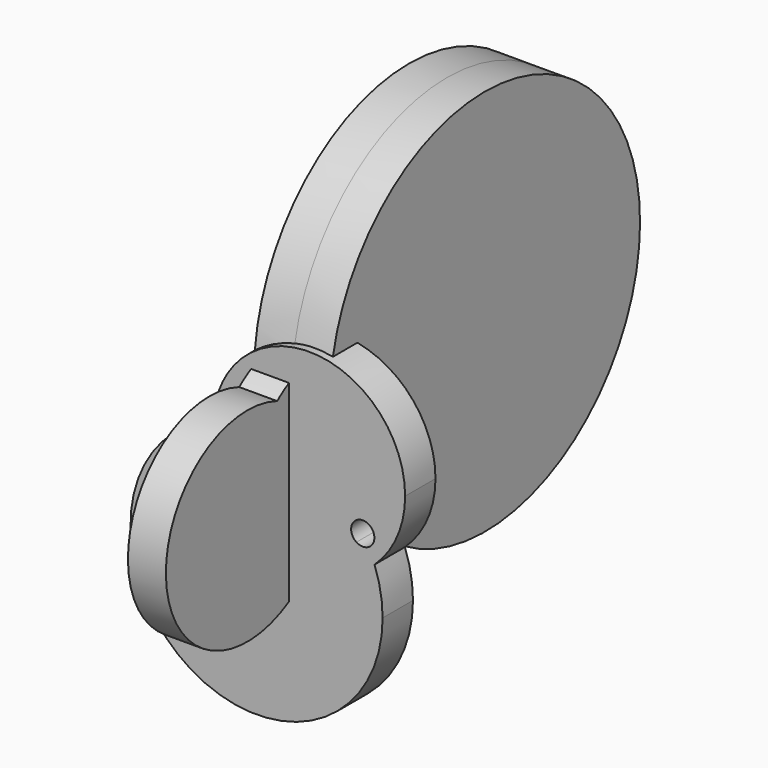
from build123d import *

# Parameters (mm, degrees)
F2_DEPTH = 25.4
F3_R     = 129.6964
F4_DEPTH = 25.4
F5_DEPTH = 25.4


with BuildPart() as f2:
    # F1 (on Front) → F2 (new body)
    with BuildSketch(Plane.XZ):
        with BuildLine():
            ThreePointArc((78.589507, 30.832666), (74.494962, 29.796901), (70.462836, 31.053908))
            ThreePointArc((70.462836, 31.053908), (66.930737, 37.424368), (70.219674, 43.923704))
            ThreePointArc((70.219674, 43.923704), (26.930725, 73.209289), (-25.301633, 71.376443))
            ThreePointArc((-25.301633, 71.376443), (12.044477, 10.444223), (82.60394, 21.794539))
            ThreePointArc((82.60394, 21.794539), (80.729272, 26.372476), (78.589507, 30.832666))
        make_face()
        with BuildLine():
            ThreePointArc((82.483879, 37.571285), (81.440266, 33.679784), (78.589507, 30.832666))
            ThreePointArc((78.589507, 30.832666), (80.729272, 26.372476), (82.60394, 21.794539))
            ThreePointArc((82.60394, 21.794539), (97.722989, 43.160958), (103.058228, 68.786039))
            ThreePointArc((103.058228, 68.786039), (56.097647, 130.632723), (-16.089775, 102.009572))
            ThreePointArc((-16.089775, 102.009572), (-22.633979, 87.275877), (-25.301633, 71.376443))
            ThreePointArc((-25.301633, 71.376443), (26.930725, 73.209289), (70.219674, 43.923704))
            ThreePointArc((70.219674, 43.923704), (78.283605, 44.477151), (82.483879, 37.571285))
        make_face()
        with BuildLine():
            ThreePointArc((87.99261, -7.8735), (86.634511, 7.203223), (82.60394, 21.794539))
            ThreePointArc((82.60394, 21.794539), (12.044477, 10.444223), (-25.301633, 71.376443))
            ThreePointArc((-25.301633, 71.376443), (-44.729604, -77.004063), (87.99261, -7.8735))
        make_face()
    extrude(amount=F2_DEPTH)

    # F3 (on face) → F4 (join)
    with BuildSketch(Plane.YZ):
        with Locations((106.742769, 106.790319)):
            Circle(F3_R)
    extrude(amount=F4_DEPTH)

    # F0 (on Right) + F4_face (on face) → F5 (join)
    with BuildSketch(Plane.YZ):
        with BuildLine():
            ThreePointArc((0, 8.180033), (-51.275793, 43.424835), (-35.365991, 103.576986))
            ThreePointArc((-35.365991, 103.576986), (-124.200923, 16.3897), (0, 8.180033))
        make_face()
        with BuildLine():
            ThreePointArc((0, 8.180033), (37.805711, 24.21966), (53.413392, 62.205732))
            ThreePointArc((53.413392, 62.205732), (22.205565, 111.178581), (-35.365991, 103.576986))
            ThreePointArc((-35.365991, 103.576986), (-3.925351, 78.514007), (7.928619, 40.093307))
            ThreePointArc((7.928619, 40.093307), (5.916787, 23.651591), (0, 8.180033))
        make_face()
        with BuildLine():
            ThreePointArc((0, 8.180033), (-51.275793, 43.424835), (-35.365991, 103.576986))
            ThreePointArc((-35.365991, 103.576986), (-124.200923, 16.3897), (0, 8.180033))
        make_face()
        with BuildLine():
            ThreePointArc((7.928619, 40.093307), (-3.925351, 78.514007), (-35.365991, 103.576986))
            ThreePointArc((-35.365991, 103.576986), (-51.275793, 43.424835), (0, 8.180033))
            ThreePointArc((0, 8.180033), (5.916787, 23.651591), (7.928619, 40.093307))
        make_face()
    with BuildSketch(Plane(origin=(25.4, 110.613343, 107.288311), x_dir=(0, 1, 0), z_dir=(1, 0, 0))):
        with BuildLine():
            ThreePointArc((-110.613343, -74.167099), (123.085367, 26.022667), (-131.178345, 24.278766))
            Line((-131.178345, 24.278766), (-110.613343, 24.278766))
            Line((-110.613343, 24.278766), (-110.613343, -74.167099))
        make_face()
    extrude(amount=F5_DEPTH)


solid = f2.part
